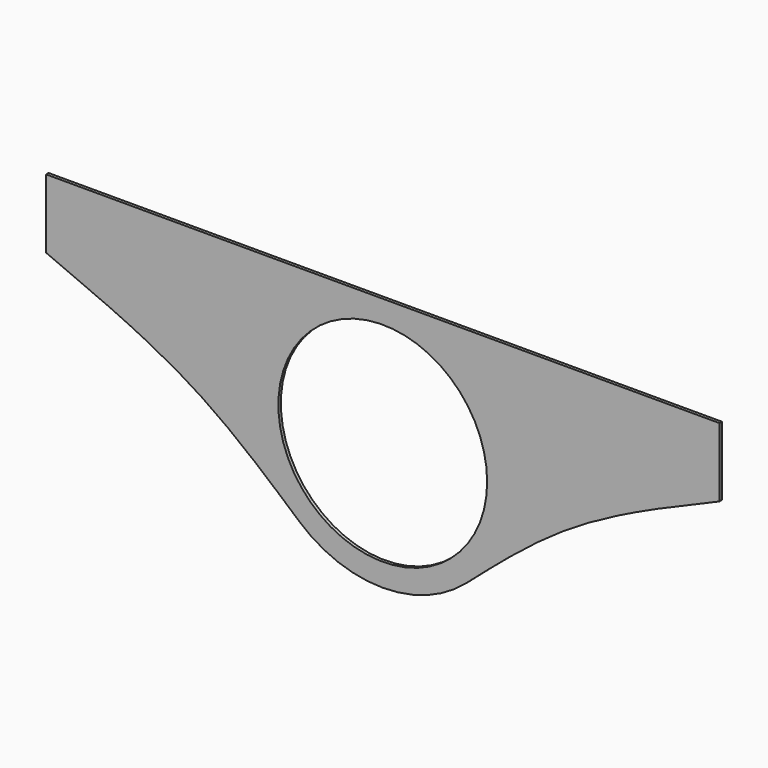
from build123d import *

# Parameters (mm, degrees)
F0_R     = 21.3676548909
F1_DEPTH = 0.635


with BuildPart() as f1:
    # F0 (on Front) → F1 (new body)
    with BuildSketch(Plane.XZ):
        with BuildLine():
            Line((68.9142415212, 26.0405766578), (0, 26.0405766578))
            Line((0, 26.0405766578), (-68.9142415212, 26.0405766578))
            Line((-68.9142415212, 26.0405766578), (-68.9142415212, 11.925470218))
            add(Edge.make_bspline(
                [(-68.9142415212, 11.925470218), (-58.5539967516, 7.5661347342), (-38.6011677749, -0.8164003994), (-24.1054599416, -13.5221086271), (-17.1279080613, -19.6149534313)],
                knots=[0, 0, 0, 0, 0.5194376377, 1, 1, 1, 1], degree=3))
            ThreePointArc((-17.1279080613, -19.6149534313), (0, -26.0405766578), (17.1279080613, -19.6149534313))
            add(Edge.make_bspline(
                [(68.9142415212, 11.925470218), (58.5539967516, 7.5661347342), (38.6011677749, -0.8164003994), (24.1054599416, -13.5221086271), (17.1279080613, -19.6149534313)],
                knots=[0, 0, 0, 0, 0.5194376377, 1, 1, 1, 1], degree=3))
            Line((68.9142415212, 11.925470218), (68.9142415212, 26.0405766578))
        make_face()
        Circle(F0_R, mode=Mode.SUBTRACT)
    extrude(amount=F1_DEPTH)


solid = f1.part
